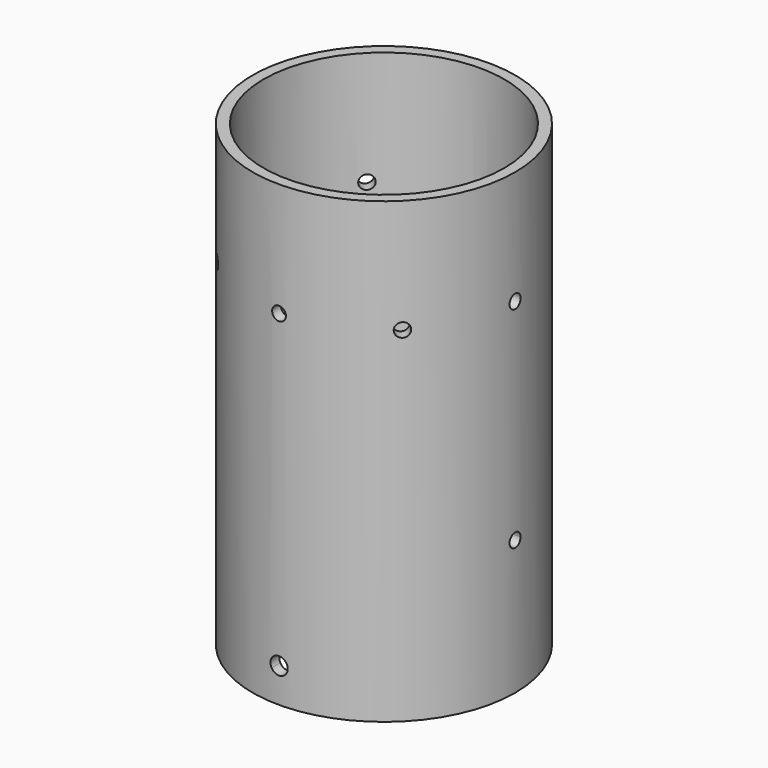
from build123d import *

# Parameters (mm, degrees)
F0_R      = 38.1
F0_R_2    = 34.925
F1_DEPTH  = 133
F2_R      = 2
F3_DEPTH  = 100
F4_DEPTH  = 100
F5_R      = 2
F6_DEPTH  = 100
F7_DEPTH  = 100
F11_R     = 2
F12_DEPTH = 100
F13_DEPTH = 100
F14_R     = 2
F15_DEPTH = 100
F16_DEPTH = 100
F17_DEPTH = 40
F18_DEPTH = 40
F19_DEPTH = 40
F20_DEPTH = 40


with BuildPart() as f1:
    # F0 (on Top) → F1 (new body)
    with BuildSketch(Plane.XY):
        Circle(F0_R)
        Circle(F0_R_2, mode=Mode.SUBTRACT)
    extrude(amount=F1_DEPTH)

    # F2 (on Front) → F3 (cut)
    with BuildSketch(Plane.XZ):
        with Locations((0, 100)):
            Circle(F2_R)
    extrude(amount=-F3_DEPTH, mode=Mode.SUBTRACT)

    # F2 (on Front) → F4 (cut)
    with BuildSketch(Plane.XZ):
        with Locations((0, 100)):
            Circle(F2_R)
    extrude(amount=F4_DEPTH, mode=Mode.SUBTRACT)

    # F5 (on Right) → F6 (cut)
    with BuildSketch(Plane.YZ):
        with Locations((0, 100)):
            Circle(F5_R)
    extrude(amount=F6_DEPTH, mode=Mode.SUBTRACT)

    # F5 (on Right) → F7 (cut)
    with BuildSketch(Plane.YZ):
        with Locations((0, 100)):
            Circle(F5_R)
    extrude(amount=-F7_DEPTH, mode=Mode.SUBTRACT)

    # F11 (on line) → F12 (cut)
    with BuildSketch(Plane(origin=(0, 0, 0), x_dir=(-0.7071067812, -0.7071067812, 0), z_dir=(-0.7071067812, 0.7071067812, 0))):
        with Locations((0, 100)):
            Circle(F11_R)
    extrude(amount=F12_DEPTH, mode=Mode.SUBTRACT)

    # F11 (on line) → F13 (cut)
    with BuildSketch(Plane(origin=(0, 0, 0), x_dir=(-0.7071067812, -0.7071067812, 0), z_dir=(-0.7071067812, 0.7071067812, 0))):
        with Locations((0, 100)):
            Circle(F11_R)
    extrude(amount=-F13_DEPTH, mode=Mode.SUBTRACT)

    # F14 (on line) → F15 (cut)
    with BuildSketch(Plane(origin=(0, 0, 0), x_dir=(0.7071067812, -0.7071067812, 0), z_dir=(-0.7071067812, -0.7071067812, 0))):
        with Locations((0, 100)):
            Circle(F14_R)
    extrude(amount=-F15_DEPTH, mode=Mode.SUBTRACT)

    # F14 (on line) → F16 (cut)
    with BuildSketch(Plane(origin=(0, 0, 0), x_dir=(0.7071067812, -0.7071067812, 0), z_dir=(-0.7071067812, -0.7071067812, 0))):
        with Locations((0, 100)):
            Circle(F14_R)
    extrude(amount=F16_DEPTH, mode=Mode.SUBTRACT)

    # F2 (on Front) → F17 (cut)
    with BuildSketch(Plane.XZ):
        with BuildLine():
            ThreePointArc((-2.1650635095, 8.75), (0, 7.5), (2.1650635095, 8.75))
            ThreePointArc((2.1650635095, 8.75), (0, 10), (-2.1650635095, 8.75))
        make_face()
        with BuildLine():
            ThreePointArc((-2, 11.5), (0, 10.5), (2, 11.5))
            ThreePointArc((2, 11.5), (0, 12.5), (-2, 11.5))
        make_face()
        with BuildLine():
            ThreePointArc((2.1650635095, 8.75), (2.4148145657, 9.3529523872), (2.5, 10))
            ThreePointArc((2.5, 10), (2.3717082451, 10.790569415), (2, 11.5))
            ThreePointArc((2, 11.5), (0, 10.5), (-2, 11.5))
            ThreePointArc((-2, 11.5), (-2.4955086675, 10.1497881522), (-2.1650635095, 8.75))
            ThreePointArc((-2.1650635095, 8.75), (0, 10), (2.1650635095, 8.75))
        make_face()
        with BuildLine():
            ThreePointArc((-2, 11.5), (0, 10.5), (2, 11.5))
            ThreePointArc((2, 11.5), (0, 12.5), (-2, 11.5))
        make_face()
    extrude(amount=F17_DEPTH, mode=Mode.SUBTRACT)

    # F2 (on Front) → F18 (cut)
    with BuildSketch(Plane.XZ):
        with BuildLine():
            ThreePointArc((-2, 11.5), (0, 10.5), (2, 11.5))
            ThreePointArc((2, 11.5), (0, 12.5), (-2, 11.5))
        make_face()
        with BuildLine():
            ThreePointArc((-2, 11.5), (0, 12.5), (2, 11.5))
            ThreePointArc((2, 11.5), (2.3717082451, 12.209430585), (2.5, 13))
            ThreePointArc((2.5, 13), (-0.790569415, 15.3717082451), (-2, 11.5))
        make_face()
        with BuildLine():
            ThreePointArc((-2.1650635095, 8.75), (0, 7.5), (2.1650635095, 8.75))
            ThreePointArc((2.1650635095, 8.75), (0, 10), (-2.1650635095, 8.75))
        make_face()
        with BuildLine():
            ThreePointArc((2.5, 7.5), (2.4148145657, 8.1470476128), (2.1650635095, 8.75))
            ThreePointArc((2.1650635095, 8.75), (0, 7.5), (-2.1650635095, 8.75))
            ThreePointArc((-2.1650635095, 8.75), (-0.6470476128, 5.0851854343), (2.5, 7.5))
        make_face()
    extrude(amount=-F18_DEPTH, mode=Mode.SUBTRACT)

    # F5 (on Right) → F19 (cut)
    with BuildSketch(Plane.YZ):
        with BuildLine():
            ThreePointArc((2, 39), (-1.4142135624, 40.4142135624), (0, 37))
            ThreePointArc((0, 37), (1.4142135624, 37.5857864376), (2, 39))
        make_face()
    extrude(amount=F19_DEPTH, mode=Mode.SUBTRACT)

    # F5 (on Right) → F20 (cut)
    with BuildSketch(Plane.YZ):
        with BuildLine():
            ThreePointArc((3.81, 39), (-2.6940768363, 41.6940768363), (0, 35.19))
            ThreePointArc((0, 35.19), (2.6940768363, 36.3059231637), (3.81, 39))
        make_face()
        with BuildLine():
            ThreePointArc((2, 39), (1.4142135624, 37.5857864376), (0, 37))
            ThreePointArc((0, 37), (-1.4142135624, 40.4142135624), (2, 39))
        make_face(mode=Mode.SUBTRACT)
        with BuildLine():
            ThreePointArc((2, 39), (-1.4142135624, 40.4142135624), (0, 37))
            ThreePointArc((0, 37), (1.4142135624, 37.5857864376), (2, 39))
        make_face()
    extrude(amount=-F20_DEPTH, mode=Mode.SUBTRACT)


solid = f1.part
